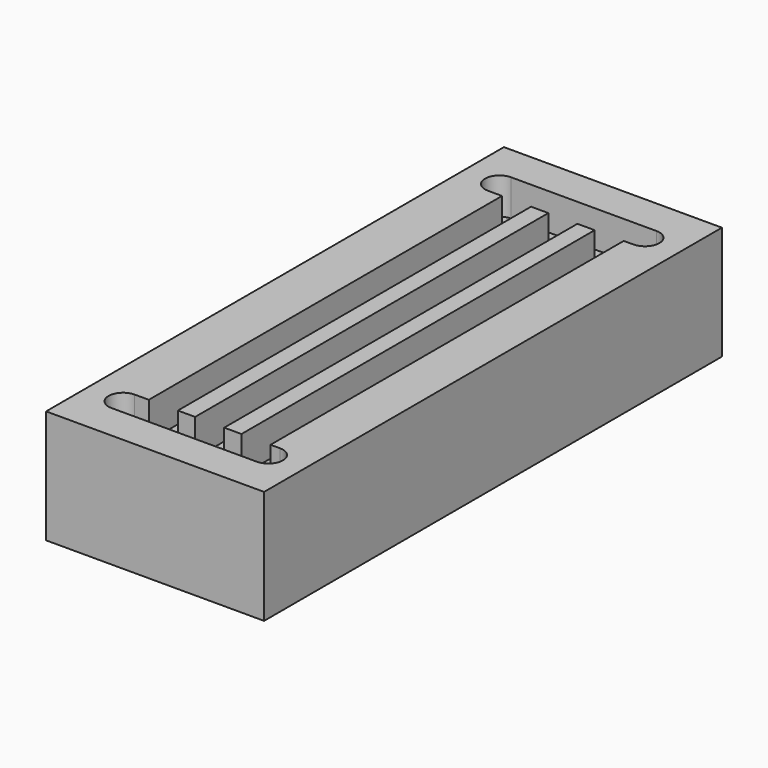
from build123d import *

# Parameters (mm, degrees)
F0_W     = 24
F0_H     = 63
F1_DEPTH = 12.5
F2_W     = 3.2
F2_H     = 55
F3_DEPTH = 4
F4_W     = 16
F4_H     = 3.2
F5_DEPTH = 4


with BuildPart() as f1:
    # F0 (on Top) → F1 (new body)
    with BuildSketch(Plane.XY):
        with Locations((12, 31.5)):
            Rectangle(F0_W, F0_H)
    extrude(amount=F1_DEPTH)

    # F2 (on face) → F3 (cut)
    with BuildSketch(Plane.XY.offset(12.5)):
        with Locations((7.15, 31.5)):
            Rectangle(F2_W, F2_H)
        with Locations((12.25, 31.5)):
            Rectangle(F2_W, F2_H)
        with Locations((17.35, 31.5)):
            Rectangle(F2_W, F2_H)
    extrude(amount=-F3_DEPTH, mode=Mode.SUBTRACT)

    # F4 (on face) → F5 (cut)
    with BuildSketch(Plane.XY.offset(12.5)):
        with Locations((12, 57.4)):
            Rectangle(F4_W, F4_H)
        with BuildLine():
            Line((4, 55.8), (4, 59))
            ThreePointArc((4, 59), (2.4, 57.4), (4, 55.8))
        make_face()
        with BuildLine():
            ThreePointArc((20, 55.8), (21.6, 57.4), (20, 59))
            Line((20, 59), (20, 55.8))
        make_face()
        with Locations((12, 5.6)):
            Rectangle(F4_W, F4_H)
        with BuildLine():
            ThreePointArc((4, 7.2), (2.4, 5.6), (4, 4))
            Line((4, 4), (4, 7.2))
        make_face()
        with BuildLine():
            Line((20, 7.2), (20, 4))
            ThreePointArc((20, 4), (21.6, 5.6), (20, 7.2))
        make_face()
    extrude(amount=-F5_DEPTH, mode=Mode.SUBTRACT)


solid = f1.part
